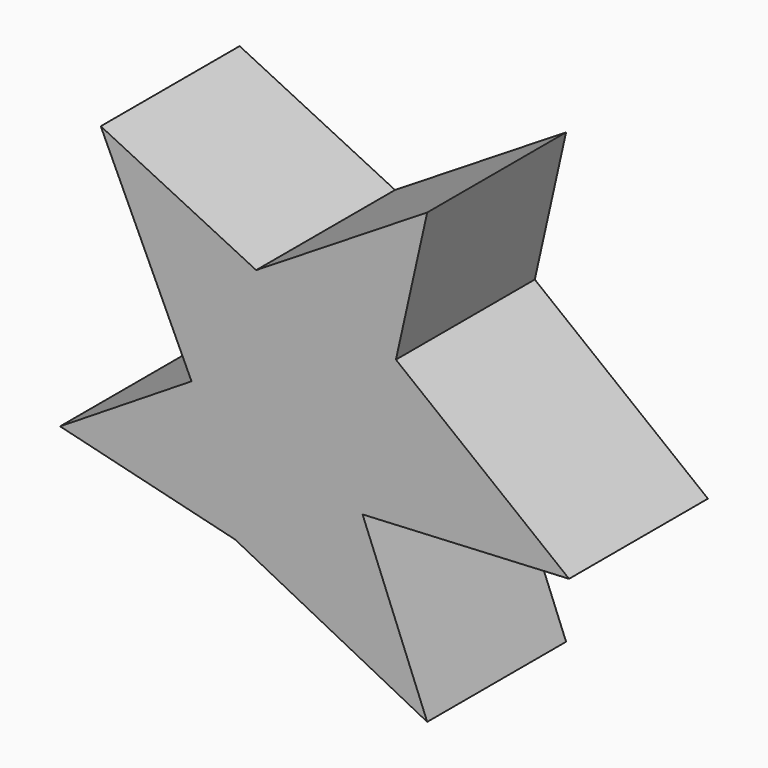
from build123d import *

# Parameters (mm, degrees)
F1_DEPTH = 50.8


with BuildPart() as f1:
    # F0 (on Front) → F1 (new body)
    with BuildSketch(Plane.XZ):
        with BuildLine():
            add(Edge.make_bspline(
                [(78.75897, -23.200314), (61.867511, -9.870308), (44.976052, 3.459699), (28.084593, 16.789706)],
                knots=[0, 0, 0, 0, 64.553034, 64.553034, 64.553034, 64.553034], degree=3))
            add(Edge.make_bspline(
                [(28.084593, 16.789706), (31.137267, 30.424981), (34.18994, 44.060256), (37.242614, 57.69553)],
                knots=[0, 0, 0, 0, 41.918442, 41.918442, 41.918442, 41.918442], degree=3))
            add(Edge.make_bspline(
                [(37.242614, 57.69553), (20.554665, 47.316441), (3.866717, 36.937351), (-12.821232, 26.558261)],
                knots=[0, 0, 0, 0, 58.956918, 58.956918, 58.956918, 58.956918], degree=3))
            add(Edge.make_bspline(
                [(-12.821232, 26.558261), (-27.982842, 33.986433), (-43.144451, 41.414605), (-58.306061, 48.842777)],
                knots=[0, 0, 0, 0, 50.650462, 50.650462, 50.650462, 50.650462], degree=3))
            add(Edge.make_bspline(
                [(-58.306061, 48.842777), (-49.453308, 29.814446), (-40.600556, 10.786116), (-31.747803, -8.242215)],
                knots=[0, 0, 0, 0, 62.960601, 62.960601, 62.960601, 62.960601], degree=3))
            add(Edge.make_bspline(
                [(-31.747803, -8.242215), (-44.569033, -16.280922), (-57.390263, -24.31963), (-70.211492, -32.358337)],
                knots=[0, 0, 0, 0, 45.398709, 45.398709, 45.398709, 45.398709], degree=3))
            add(Edge.make_bspline(
                [(-70.211492, -32.358337), (-53.116521, -36.530323), (-36.02155, -40.702309), (-18.92658, -44.874296)],
                knots=[0, 0, 0, 0, 52.79007, 52.79007, 52.79007, 52.79007], degree=3))
            add(Edge.make_bspline(
                [(-18.92658, -44.874296), (-0.203515, -54.439339), (18.519549, -64.004381), (37.242614, -73.569424)],
                knots=[0, 0, 0, 0, 63.074469, 63.074469, 63.074469, 63.074469], degree=3))
            add(Edge.make_bspline(
                [(37.242614, -73.569424), (30.933755, -57.797279), (24.624897, -42.025134), (18.316038, -26.252989)],
                knots=[0, 0, 0, 0, 50.961361, 50.961361, 50.961361, 50.961361], degree=3))
            add(Edge.make_bspline(
                [(18.316038, -26.252989), (38.463682, -25.235431), (58.611326, -24.217873), (78.75897, -23.200314)],
                knots=[0, 0, 0, 0, 60.519971, 60.519971, 60.519971, 60.519971], degree=3))
        make_face()
    extrude(amount=F1_DEPTH)


solid = f1.part
